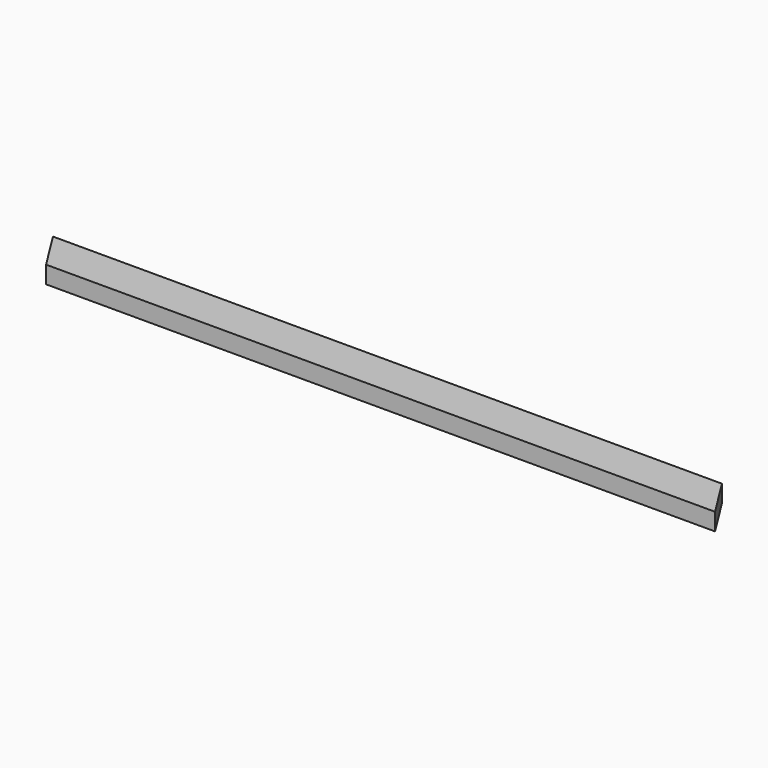
from build123d import *

# Parameters (mm, degrees)
F1_DEPTH = 19.05


with BuildPart() as f1:
    # F0 (on Top) → F1 (new body, symmetric)
    with BuildSketch(Plane.XY):
        Polygon((-707.027248, -44.45), (763.09728, -44.45), (707.027248, 44.45), (-763.09728, 44.45), align=None)
    extrude(amount=F1_DEPTH, both=True)


solid = f1.part
